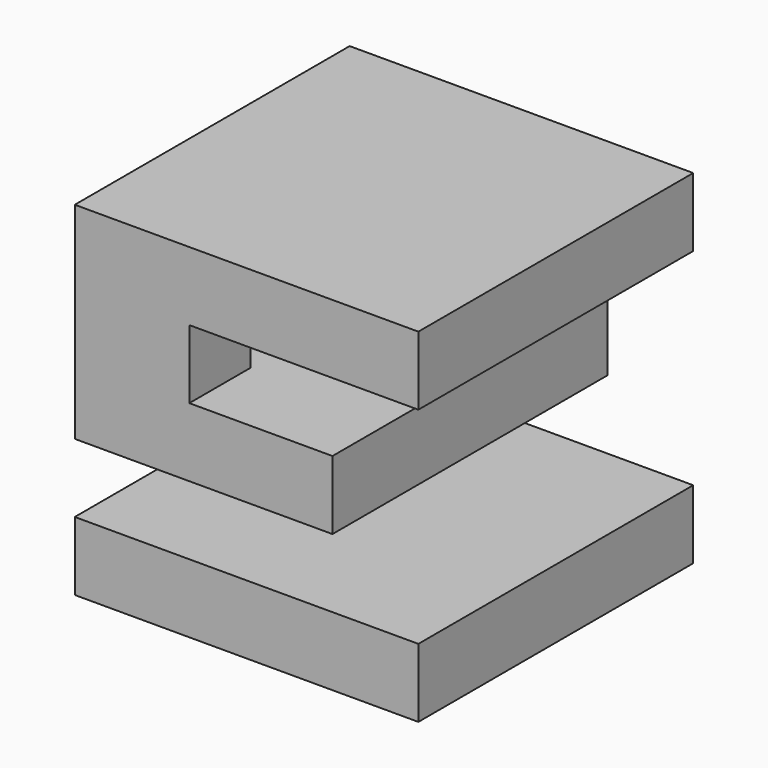
from build123d import *

# Parameters (mm, degrees)
F0_W     = 38.1
F0_H     = 38.1
F1_DEPTH = 38.1
F5_W     = 29.6418
F5_H     = 7.62
F6_DEPTH = 38.1
F8_DEPTH = 38.1


with BuildPart() as f1:
    # F0 (on Front) → F1 (new body)
    with BuildSketch(Plane.XZ):
        with Locations((19.05, 19.05)):
            Rectangle(F0_W, F0_H)
    extrude(amount=F1_DEPTH)

    # F5 (on offset) → F6 (cut)
    with BuildSketch(Plane.YZ.offset(38.1)):
        with Locations((-14.8209, 26.67)):
            Rectangle(F5_W, F5_H)
        Polygon((-8.519419, 15.24), (-38.160126, 15.24), (-38.493167, 7.62), (-8.519419, 7.62), align=None)
    extrude(amount=-F6_DEPTH, mode=Mode.SUBTRACT)

    # F7 (on offset) → F8 (cut)
    with BuildSketch(Plane.XZ.offset(38.1)):
        Polygon((38.1, 7.62), (38.1, 30.48), (12.7, 30.48), (12.7, 22.86), (28.575, 22.86), (28.575, 15.24), (12.7, 15.24), (12.7, 7.62), align=None)
    extrude(amount=-F8_DEPTH, mode=Mode.SUBTRACT)


solid = f1.part
